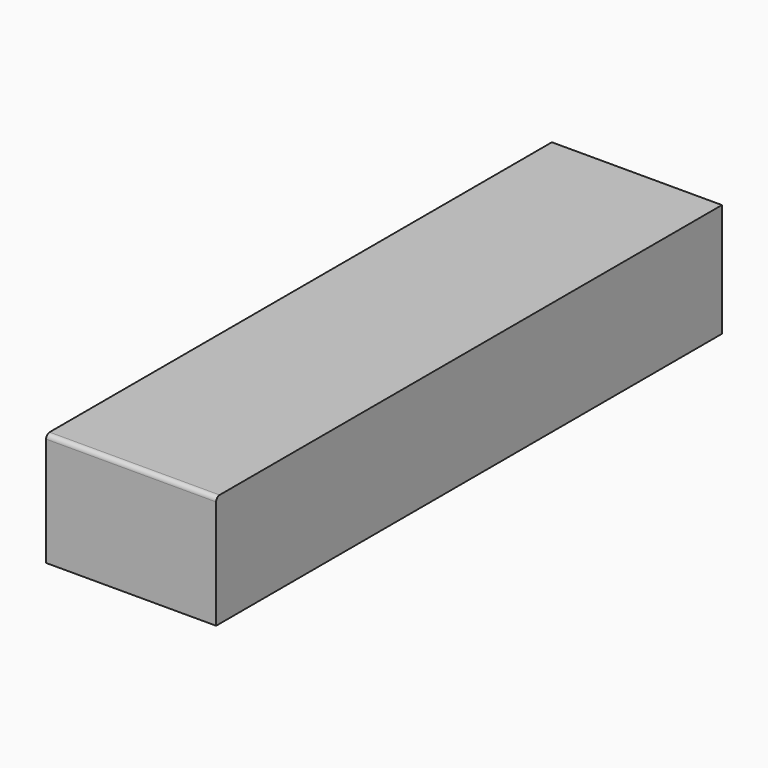
from build123d import *

# Parameters (mm, degrees)
BOX_W     = 39
BOX_H     = 145
BOX_DEPTH = 26
FILLET_R  = 1


with BuildPart() as part:
    # Box → Box (new body)
    with BuildSketch(Plane.XY):
        with Locations((19.5, 72.5)):
            Rectangle(BOX_W, BOX_H)
    extrude(amount=BOX_DEPTH)

    # Fillet
    fillet_edges = [part.edges().sort_by_distance(p)[0] for p in [
        (19.5, 0, 26),
    ]]
    fillet(fillet_edges, radius=FILLET_R)


solid = part.part
